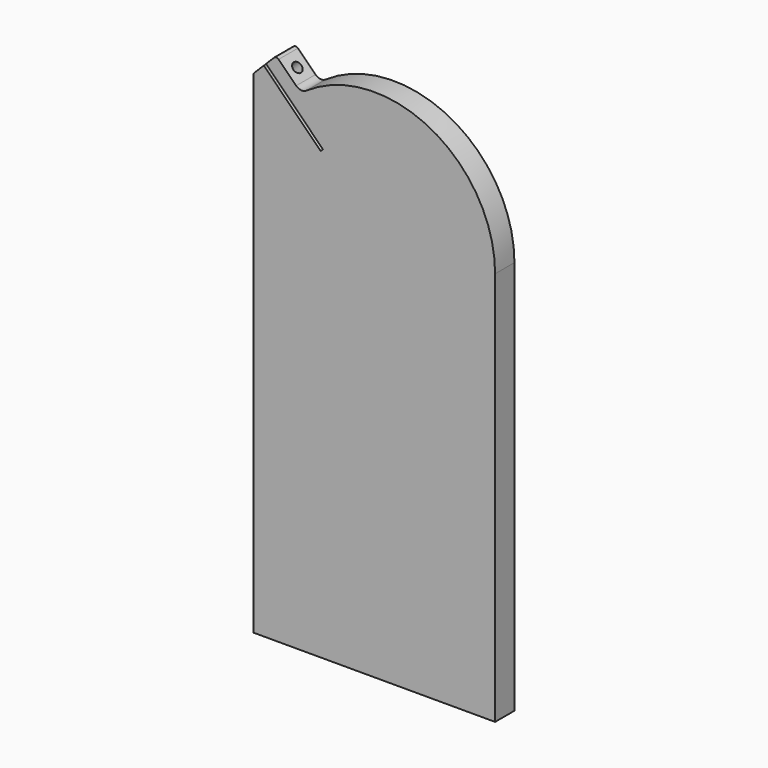
from build123d import *

# Parameters (mm, degrees)
F1_DEPTH = 15
F2_R     = 5
F3_R     = 2
F4_R     = 2
F6_DEPTH = 15.001
F7_R     = 3.1
F8_DEPTH = 9


with BuildPart() as f1:
    # F0 (on Front) → F1 (new body)
    with BuildSketch(Plane.XZ):
        with BuildLine():
            Line((-75, 305.764502), (-75, 0))
            Line((-75, 0), (75, 0))
            Line((75, 0), (75, 245))
            ThreePointArc((75, 245), (33.237011, 312.233185), (-45.541363, 304.590136))
            Line((-45.541363, 304.590136), (-60.857864, 319.906638))
            Line((-60.857864, 319.906638), (-75, 305.764502))
        make_face()
    extrude(amount=F1_DEPTH)

    # F2
    f2_edges = [f1.edges().sort_by_distance(p)[0] for p in [
        (-45.541363, -7.5, 304.590136),
    ]]
    fillet(f2_edges, radius=F2_R)

    # F3
    f3_edges = [f1.edges().sort_by_distance(p)[0] for p in [
        (-60.857864, -7.5, 319.906638),
    ]]
    fillet(f3_edges, radius=F3_R)

    # F4
    f4_edges = [f1.edges().sort_by_distance(p)[0] for p in [
        (-75, -7.5, 305.764502),
    ]]
    fillet(f4_edges, radius=F4_R)

    # F5 (on face) → F6 (cut, through all)
    with BuildSketch(Plane.XZ.offset(15)):
        Polygon((-67.221825, 313.542677), (-68.636039, 312.128463), (-33.308996, 276.80142), (-31.894782, 278.215633), align=None)
    extrude(amount=-F6_DEPTH, mode=Mode.SUBTRACT)

    # F7 (on face) → F8 (cut, through all)
    with BuildSketch(Plane(origin=(129.524387, 0, 129.524387), x_dir=(0.707107, 0, -0.707107), z_dir=(0.707107, 0, 0.707107))):
        with Locations((-259.241161, -7.5)):
            Circle(F7_R)
    extrude(amount=-F8_DEPTH, mode=Mode.SUBTRACT)


solid = f1.part
